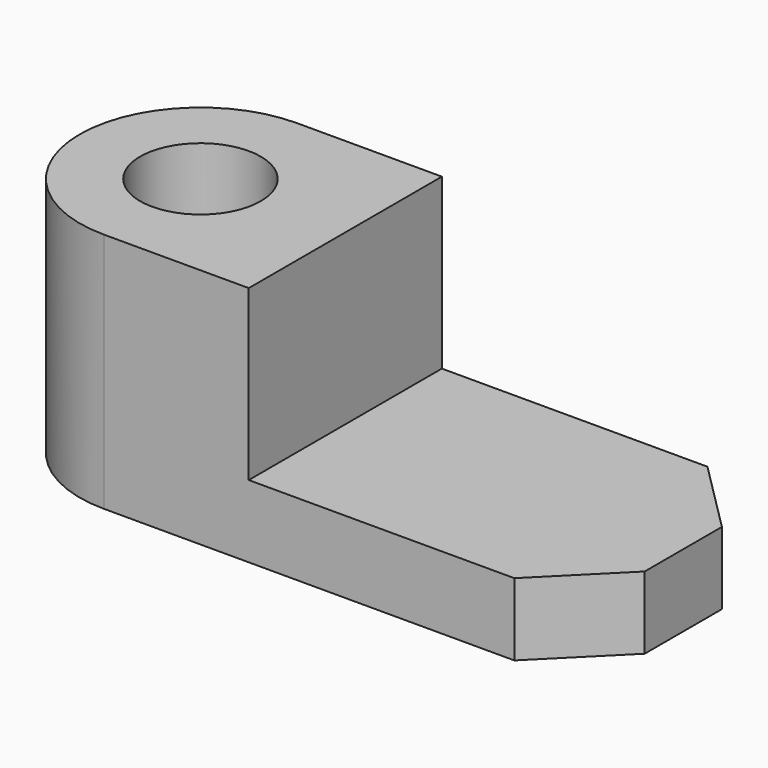
from build123d import *

# Parameters (mm, degrees)
F0_R     = 7.5
F1_DEPTH = 30
F0_W     = 42
F0_H     = 7
F2_DEPTH = 9


with BuildPart() as f1:
    # F0 (on Top) → F1 (new body)
    with BuildSketch(Plane.XY):
        with BuildLine():
            Line((-51, 0), (-33, 0))
            Line((-33, 0), (-33, 11.5))
            Line((-33, 11.5), (-33, 18.5))
            Line((-33, 18.5), (-33, 30))
            Line((-33, 30), (-51, 30))
            ThreePointArc((-51, 30), (-66, 15), (-51, 0))
        make_face()
        with Locations((-51, 15)):
            Circle(F0_R, mode=Mode.SUBTRACT)
    extrude(amount=F1_DEPTH)

    # F0 (on Top) → F2 (join)
    with BuildSketch(Plane.XY):
        Polygon((-33, 0), (0, 0), (9, 9), (9, 11.5), (-33, 11.5), align=None)
        Polygon((-33, 18.5), (9, 18.5), (9, 21), (0, 30), (-33, 30), align=None)
        with Locations((-12, 15)):
            Rectangle(F0_W, F0_H)
    extrude(amount=F2_DEPTH)


solid = f1.part
